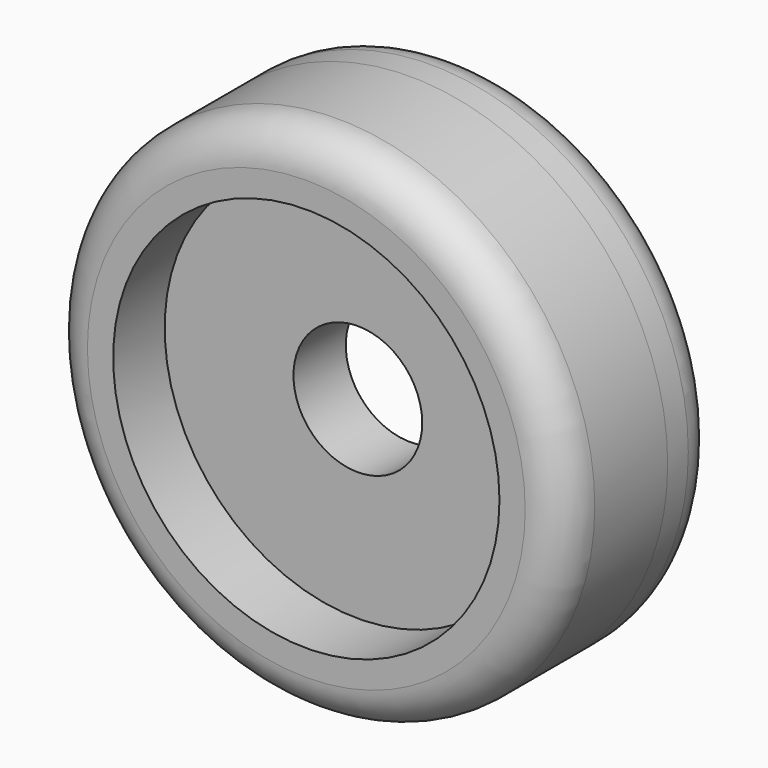
from build123d import *

# Parameters (mm, degrees)
F0_R     = 100
F0_R_2   = 75
F0_R_3   = 25
F1_DEPTH = 12.7
F2_R     = 100
F2_R_2   = 75
F3_DEPTH = 25
F4_R     = 100
F4_R_2   = 75
F5_DEPTH = 25
F6_R     = 15


with BuildPart() as f1:
    # F0 (on Front) → F1 (new body, symmetric)
    with BuildSketch(Plane.XZ):
        Circle(F0_R)
        Circle(F0_R_2, mode=Mode.SUBTRACT)
        Circle(F0_R_2)
        Circle(F0_R_3, mode=Mode.SUBTRACT)
    extrude(amount=F1_DEPTH, both=True)

    # F2 (on face) → F3 (join)
    with BuildSketch(Plane.XZ.offset(12.7)):
        Circle(F2_R)
        Circle(F2_R_2, mode=Mode.SUBTRACT)
    extrude(amount=F3_DEPTH)

    # F4 (on face) → F5 (join)
    with BuildSketch(Plane(origin=(0, 12.7, 0), x_dir=(-1, 0, 0), z_dir=(0, 1, 0))):
        Circle(F4_R)
        Circle(F4_R_2, mode=Mode.SUBTRACT)
    extrude(amount=F5_DEPTH)

    # F6
    f6_edges = [f1.edges().sort_by_distance(p)[0] for p in [
        (100, 37.7, 0),
        (-100, -37.7, 0),
    ]]
    fillet(f6_edges, radius=F6_R)


solid = f1.part
